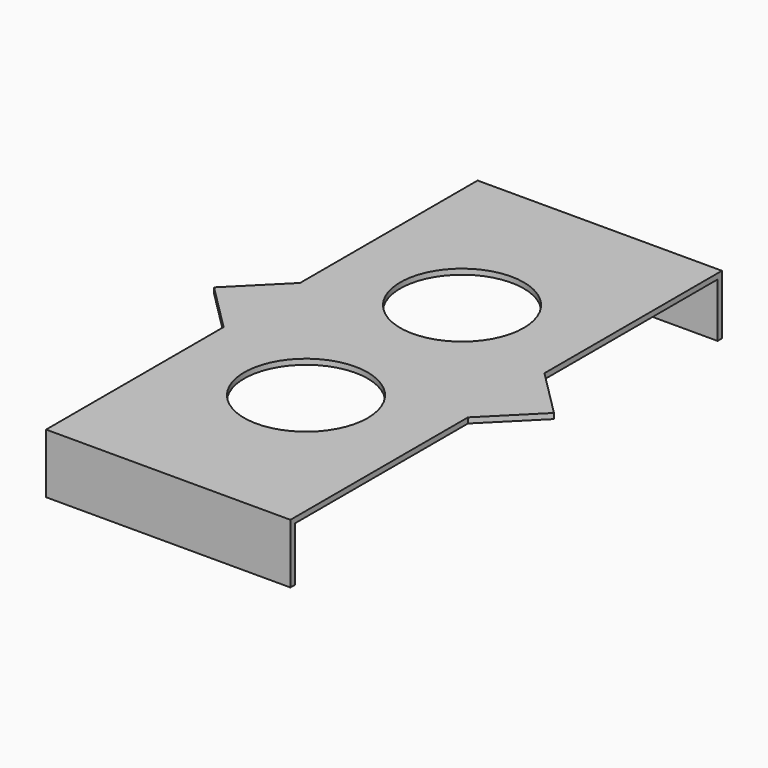
from build123d import *

# Parameters (mm, degrees)
PAD014_DEPTH    = 1
SKETCH020_W     = 45.1
SKETCH020_H     = 1
PAD015_DEPTH    = 10
SKETCH021_R     = 11.4
POCKET005_DEPTH = 5


with BuildPart() as part:
    # Sketch019 → Pad014 (new body)
    with BuildSketch(Plane.XY):
        Polygon((-22.55, 49.776346), (22.55, 49.776346), (22.55, 8.823654), (31.373654, 0), (22.55, -8.823654), (22.55, -49.776346), (-22.55, -49.776346), (-22.55, -8.823654), (-31.373654, 0), (-22.55, 8.823654), align=None)
    extrude(amount=PAD014_DEPTH)

    # Sketch020 (on Face11 of Pad014) → Pad015 (join)
    with BuildSketch(Plane(origin=(0, 0, 0), x_dir=(1, 0, 0), z_dir=(0, 0, -1))):
        with Locations((0, 49.276346)):
            Rectangle(SKETCH020_W, SKETCH020_H)
        with Locations((0, -49.276346)):
            Rectangle(SKETCH020_W, SKETCH020_H)
    extrude(amount=PAD015_DEPTH)

    # Sketch021 (on Face5 of Pad015) → Pocket005 (cut)
    with BuildSketch(Plane.XY.offset(1)):
        with Locations((0, 18)):
            Circle(SKETCH021_R)
    pocket005 = extrude(amount=-POCKET005_DEPTH, mode=Mode.SUBTRACT)

    # Mirrored002: Pocket005 across Sketch021 H_Axis
    add(pocket005.mirror(Plane(origin=(0, 0, 1), x_dir=(0, 0, 1), z_dir=(0, 1, 0))), mode=Mode.SUBTRACT)


with BuildPart() as part_1:
    # Body034 placement: moved
    add(part.part.moved(Location((0, 0, 10))))


solid = part_1.part
